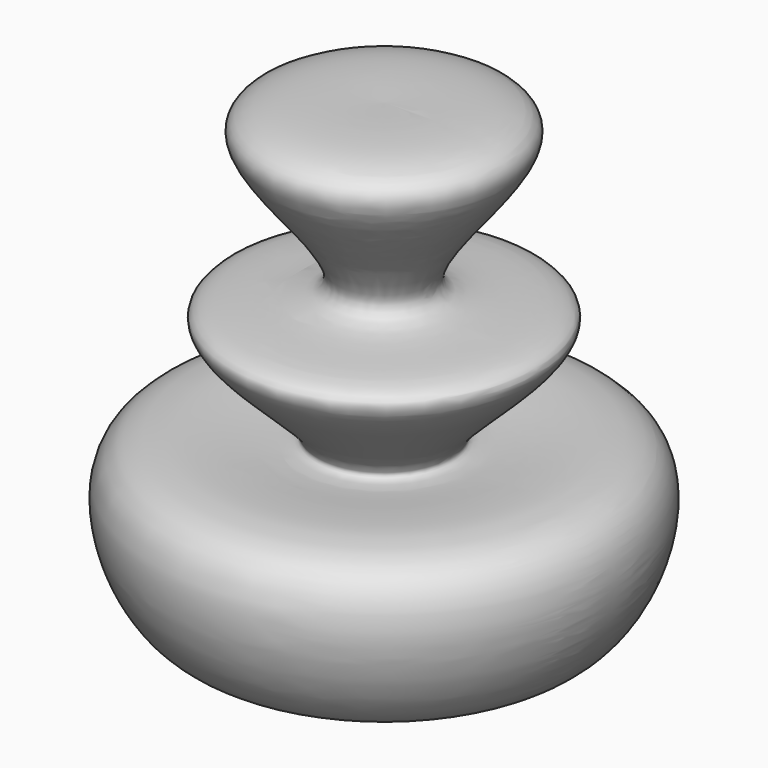
from build123d import *


with BuildPart() as f1:
    # F0 (on Front) → F1 (revolve)
    with BuildSketch(Plane.XZ):
        with BuildLine():
            add(Edge.make_bspline(
                [(-63.0961284041, 44.1768690944), (-45.4149626096, 44.6073824983), (-8.3950349217, 45.5087696166), (-74.1192885315, -10.3207103098), (4.3100949826, 2.6015078266), (-72.3678991494, -51.1984468063), (14.3026436614, -22.0195112685), (-11.4238195996, -104.4681789), (-44.9926292557, -70.3557615654), (-63.0961284041, -51.9590973854)],
                knots=[0, 0, 0, 0, 0.1332941157, 0.2790844553, 0.4020558388, 0.5408151672, 0.6836972198, 0.8294194173, 1, 1, 1, 1], degree=3))
            Line((-63.0961284041, 44.1768690944), (-63.0961284041, -51.9590973854))
        make_face()
    revolve(axis=Axis((-63.0961284041, 0, -3.8911141455), (0, 0, -1)))


solid = f1.part
